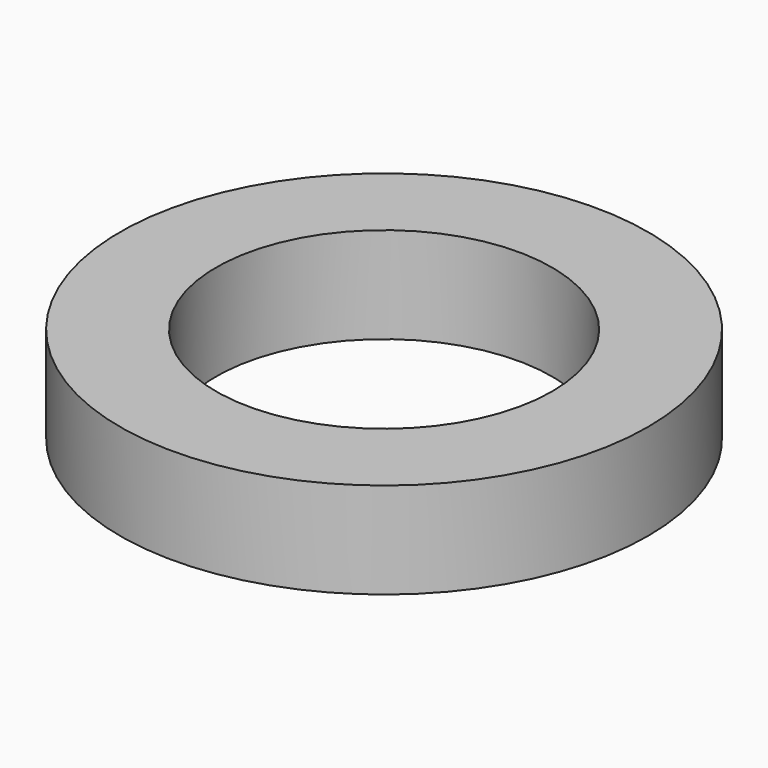
from build123d import *

# Parameters (mm, degrees)
SKETCH_R   = 27.5
SKETCH_R_2 = 17.5
PAD_DEPTH  = 10


with BuildPart() as part:
    # Sketch → Pad (new body)
    with BuildSketch(Plane.XY):
        Circle(SKETCH_R)
        Circle(SKETCH_R_2, mode=Mode.SUBTRACT)
    extrude(amount=PAD_DEPTH)


solid = part.part
